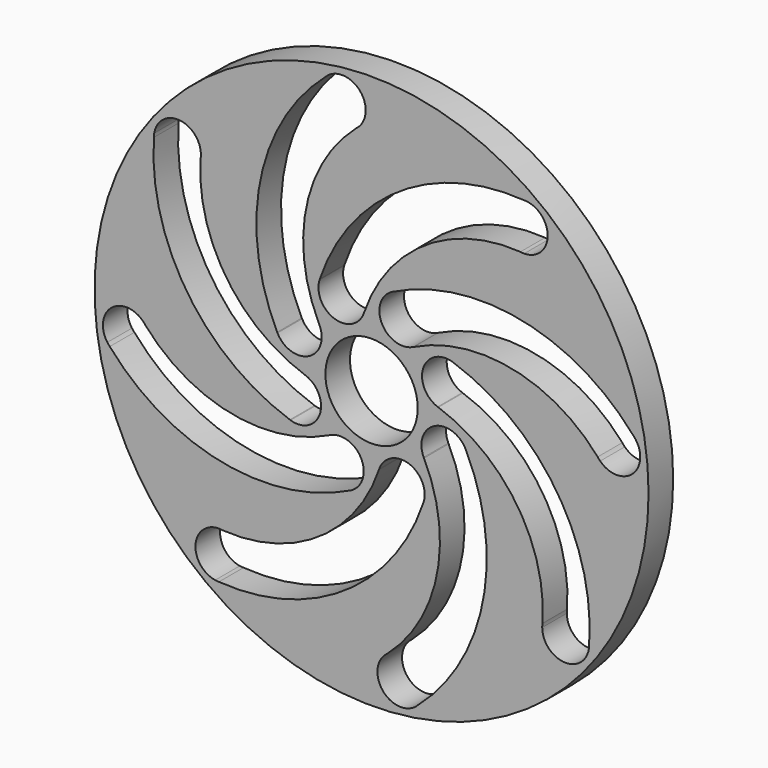
from build123d import *

# Parameters (mm, degrees)
F0_R     = 57.15
F0_R_2   = 9.525
F1_DEPTH = 3.175


with BuildPart() as f1:
    # F0 (on Front) → F1 (new body, symmetric)
    with BuildSketch(Plane.XZ):
        Circle(F0_R)
        with BuildLine():
            ThreePointArc((-32.267608, -44.82798), (-36.315903, -39.658594), (-31.489624, -35.206824))
            ThreePointArc((-31.489624, -35.206824), (-31.099362, -35.222577), (-30.711639, -35.269733))
            ThreePointArc((-30.711639, -35.269733), (-10.931764, -30.012682), (1.53061, -13.777866))
            ThreePointArc((1.53061, -13.777866), (1.553959, -13.706546), (1.578414, -13.635598))
            ThreePointArc((1.578414, -13.635598), (7.66651, -10.668663), (10.727742, -16.709895))
            ThreePointArc((10.727742, -16.709895), (10.704393, -16.781215), (10.679938, -16.852163))
            ThreePointArc((10.679938, -16.852163), (-5.618196, -38.070526), (-31.489624, -44.890889))
            ThreePointArc((-31.489624, -44.890889), (-31.879886, -44.875136), (-32.267608, -44.82798))
        make_face(mode=Mode.SUBTRACT)
        with BuildLine():
            ThreePointArc((-54.514813, -8.881524), (-53.722082, -2.36364), (-47.16151, -2.628457))
            ThreePointArc((-47.16151, -2.628457), (-46.896692, -2.915553), (-46.655876, -3.223059))
            ThreePointArc((-46.655876, -3.223059), (-28.952096, -13.492246), (-8.660118, -10.824727))
            ThreePointArc((-8.660118, -10.824727), (-8.593177, -10.790807), (-8.525717, -10.757931))
            ThreePointArc((-8.525717, -10.757931), (-2.122843, -12.964926), (-4.230021, -19.401339))
            ThreePointArc((-4.230021, -19.401339), (-4.296962, -19.43526), (-4.364422, -19.468135))
            ThreePointArc((-4.364422, -19.468135), (-30.892592, -22.947263), (-54.009178, -9.476126))
            ThreePointArc((-54.009178, -9.476126), (-54.273996, -9.18903), (-54.514813, -8.881524))
        make_face(mode=Mode.SUBTRACT)
        with BuildLine():
            ThreePointArc((8.881524, -54.514813), (2.36364, -53.722082), (2.628457, -47.16151))
            ThreePointArc((2.628457, -47.16151), (2.915553, -46.896692), (3.223059, -46.655876))
            ThreePointArc((3.223059, -46.655876), (13.492246, -28.952096), (10.824727, -8.660118))
            ThreePointArc((10.824727, -8.660118), (10.790807, -8.593177), (10.757931, -8.525717))
            ThreePointArc((10.757931, -8.525717), (12.964926, -2.122843), (19.401339, -4.230021))
            ThreePointArc((19.401339, -4.230021), (19.43526, -4.296962), (19.468135, -4.364422))
            ThreePointArc((19.468135, -4.364422), (22.947263, -30.892592), (9.476126, -54.009178))
            ThreePointArc((9.476126, -54.009178), (9.18903, -54.273996), (8.881524, -54.514813))
        make_face(mode=Mode.SUBTRACT)
        with BuildLine():
            ThreePointArc((44.82798, -32.267608), (39.658594, -36.315903), (35.206824, -31.489624))
            ThreePointArc((35.206824, -31.489624), (35.222577, -31.099362), (35.269733, -30.711639))
            ThreePointArc((35.269733, -30.711639), (30.012682, -10.931764), (13.777866, 1.53061))
            ThreePointArc((13.777866, 1.53061), (13.706546, 1.553959), (13.635598, 1.578414))
            ThreePointArc((13.635598, 1.578414), (10.668663, 7.66651), (16.709895, 10.727742))
            ThreePointArc((16.709895, 10.727742), (16.781215, 10.704393), (16.852163, 10.679938))
            ThreePointArc((16.852163, 10.679938), (38.070526, -5.618196), (44.890889, -31.489624))
            ThreePointArc((44.890889, -31.489624), (44.875136, -31.879886), (44.82798, -32.267608))
        make_face(mode=Mode.SUBTRACT)
        with BuildLine():
            ThreePointArc((-44.82798, 32.267608), (-39.658594, 36.315903), (-35.206824, 31.489624))
            ThreePointArc((-35.206824, 31.489624), (-35.222577, 31.099362), (-35.269733, 30.711639))
            ThreePointArc((-35.269733, 30.711639), (-30.012682, 10.931764), (-13.777866, -1.53061))
            ThreePointArc((-13.777866, -1.53061), (-13.706546, -1.553959), (-13.635598, -1.578414))
            ThreePointArc((-13.635598, -1.578414), (-10.668663, -7.66651), (-16.709895, -10.727742))
            ThreePointArc((-16.709895, -10.727742), (-16.781215, -10.704393), (-16.852163, -10.679938))
            ThreePointArc((-16.852163, -10.679938), (-38.070526, 5.618196), (-44.890889, 31.489624))
            ThreePointArc((-44.890889, 31.489624), (-44.875136, 31.879886), (-44.82798, 32.267608))
        make_face(mode=Mode.SUBTRACT)
        with BuildLine():
            ThreePointArc((-8.881524, 54.514813), (-2.36364, 53.722082), (-2.628457, 47.16151))
            ThreePointArc((-2.628457, 47.16151), (-2.915553, 46.896692), (-3.223059, 46.655876))
            ThreePointArc((-3.223059, 46.655876), (-13.492246, 28.952096), (-10.824727, 8.660118))
            ThreePointArc((-10.824727, 8.660118), (-10.790807, 8.593177), (-10.757931, 8.525717))
            ThreePointArc((-10.757931, 8.525717), (-12.964926, 2.122843), (-19.401339, 4.230021))
            ThreePointArc((-19.401339, 4.230021), (-19.43526, 4.296962), (-19.468135, 4.364422))
            ThreePointArc((-19.468135, 4.364422), (-22.947263, 30.892592), (-9.476126, 54.009178))
            ThreePointArc((-9.476126, 54.009178), (-9.18903, 54.273996), (-8.881524, 54.514813))
        make_face(mode=Mode.SUBTRACT)
        Circle(F0_R_2, mode=Mode.SUBTRACT)
        with BuildLine():
            ThreePointArc((54.514813, 8.881524), (53.722082, 2.36364), (47.16151, 2.628457))
            ThreePointArc((47.16151, 2.628457), (46.896692, 2.915553), (46.655876, 3.223059))
            ThreePointArc((46.655876, 3.223059), (28.952096, 13.492246), (8.660118, 10.824727))
            ThreePointArc((8.660118, 10.824727), (8.593177, 10.790807), (8.525717, 10.757931))
            ThreePointArc((8.525717, 10.757931), (2.122843, 12.964926), (4.230021, 19.401339))
            ThreePointArc((4.230021, 19.401339), (4.296962, 19.43526), (4.364422, 19.468135))
            ThreePointArc((4.364422, 19.468135), (30.892592, 22.947263), (54.009178, 9.476126))
            ThreePointArc((54.009178, 9.476126), (54.273996, 9.18903), (54.514813, 8.881524))
        make_face(mode=Mode.SUBTRACT)
        with BuildLine():
            ThreePointArc((32.267608, 44.82798), (36.315903, 39.658594), (31.489624, 35.206824))
            ThreePointArc((31.489624, 35.206824), (31.099362, 35.222577), (30.711639, 35.269733))
            ThreePointArc((30.711639, 35.269733), (10.931764, 30.012682), (-1.53061, 13.777866))
            ThreePointArc((-1.53061, 13.777866), (-1.553959, 13.706546), (-1.578414, 13.635598))
            ThreePointArc((-1.578414, 13.635598), (-7.66651, 10.668663), (-10.727742, 16.709895))
            ThreePointArc((-10.727742, 16.709895), (-10.704393, 16.781215), (-10.679938, 16.852163))
            ThreePointArc((-10.679938, 16.852163), (5.618196, 38.070526), (31.489624, 44.890889))
            ThreePointArc((31.489624, 44.890889), (31.879886, 44.875136), (32.267608, 44.82798))
        make_face(mode=Mode.SUBTRACT)
    extrude(amount=F1_DEPTH, both=True)


solid = f1.part
